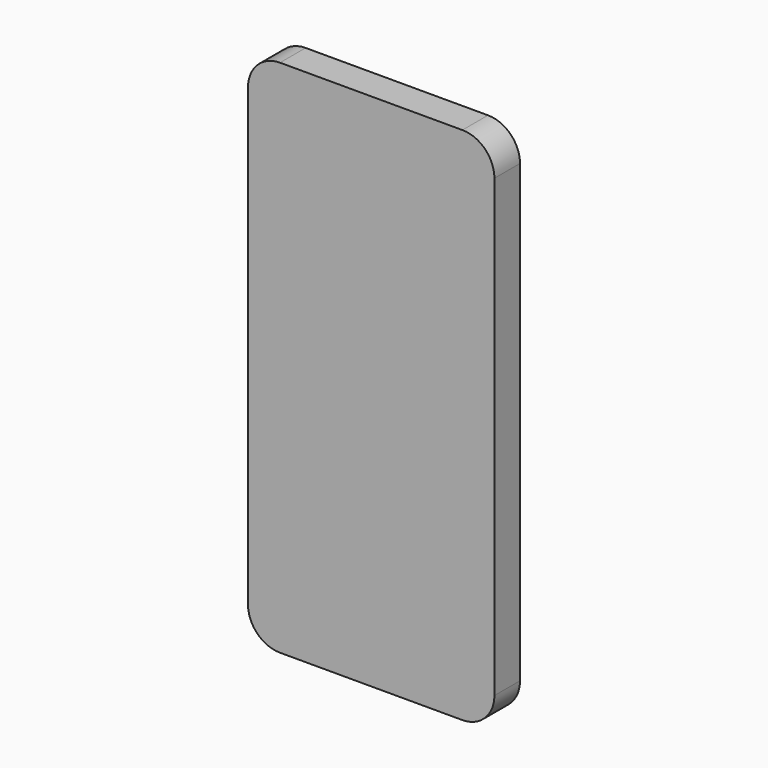
from build123d import *

# Parameters (mm, degrees)
F0_W      = 58.674
F0_H      = 123.698
F0_W_2    = 51.5999984
F0_H_2    = 90.24999984
F1_DEPTH  = 7.62
F2_DEPTH  = 7.62
F3_R      = 7.62
F4_R      = 2.499995
F5_DEPTH  = 0.762
F6_DEPTH  = 0.762
F4_W      = 3.5058120266
F4_H      = 8.0789849162
F7_DEPTH  = 2.54
F8_R      = 1.867115094
F9_DEPTH  = 11.43
F10_D     = 3.302
F10_DEPTH = 12.7
F10_TIP   = 0.992020882


with BuildPart() as f1:
    # F0 (on Front) → F1 (new body)
    with BuildSketch(Plane.XZ):
        Rectangle(F0_W, F0_H)
        Rectangle(F0_W_2, F0_H_2, mode=Mode.SUBTRACT)
    extrude(amount=F1_DEPTH)

    # F0 (on Front) → F2 (join)
    with BuildSketch(Plane.XZ):
        Rectangle(F0_W_2, F0_H_2)
    extrude(amount=F2_DEPTH)

    # F3
    f3_edges = [f1.edges().sort_by_distance(p)[0] for p in [
        (29.337, -3.81, 61.849),
        (29.337, -3.81, -61.849),
        (-29.337, -3.81, -61.849),
        (-29.337, -3.81, 61.849),
    ]]
    fillet(f3_edges, radius=F3_R)

    # F4 (on face) → F5 (join)
    with BuildSketch(Plane(origin=(-29.337, 0, 0), x_dir=(0, -1, 0), z_dir=(-1, 0, 0))):
        with Locations((4.176910501, 24.1317823529)):
            Circle(F4_R)
    extrude(amount=F5_DEPTH)

    # F4 (on face) → F6 (join)
    with BuildSketch(Plane(origin=(-29.337, 0, 0), x_dir=(0, -1, 0), z_dir=(-1, 0, 0))):
        with Locations((4.1472632438, 33.8419191539)):
            Circle(F4_R)
    extrude(amount=F6_DEPTH)

    # F4 (on face) → F7 (join)
    with BuildSketch(Plane(origin=(-29.337, 0, 0), x_dir=(0, -1, 0), z_dir=(-1, 0, 0))):
        with Locations((4.1351062246, 46.2057814002)):
            Rectangle(F4_W, F4_H)
    extrude(amount=-F7_DEPTH)

    # F8 (on face) → F9 (join)
    with BuildSketch(Plane(origin=(0, 0, -61.849), x_dir=(1, 0, 0), z_dir=(0, 0, -1))):
        with Locations((-17.5930447876, 3.81)):
            Circle(F8_R)
    extrude(amount=-F9_DEPTH)

    # F10
    with Locations(Plane(origin=(0, 0, -61.849), x_dir=(1, 0, 0), z_dir=(0, 0, -1))):
        with Locations((-17.5930447876, 3.81)):
            Hole(F10_D / 2, depth=F10_DEPTH)
            with Locations((0, 0, -(F10_DEPTH + F10_TIP / 2))):  # 118° drill point
                Cone(0, F10_D / 2, F10_TIP, mode=Mode.SUBTRACT)


solid = f1.part
